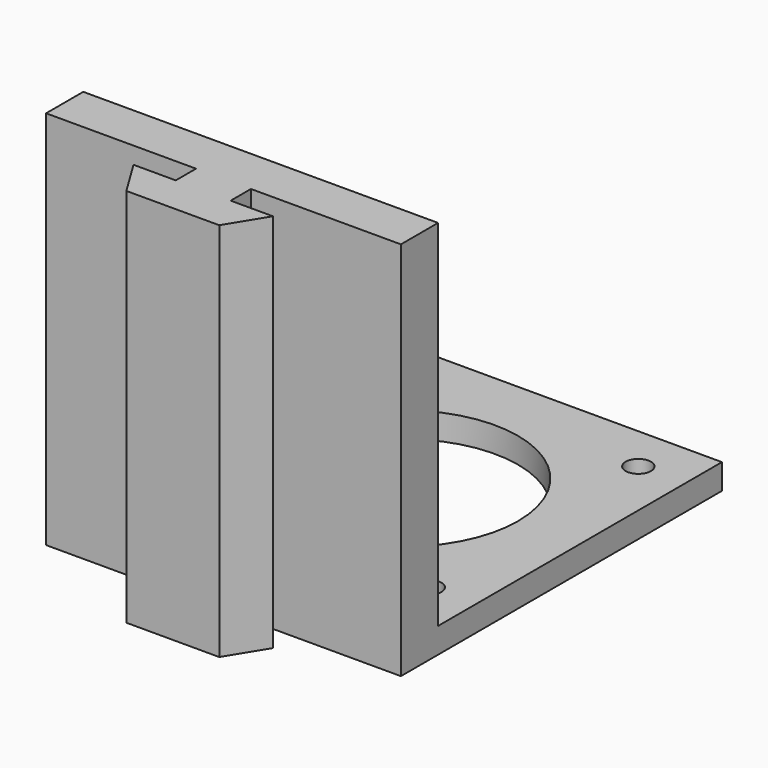
from build123d import *

# Parameters (mm, degrees)
F0_R     = 1.5
F0_R_2   = 13.666943
F1_DEPTH = 3
F0_W     = 3.25
F0_H     = 5.5
F0_W_2   = 17.75
F2_DEPTH = 45


with BuildPart() as f1:
    # F0 (on Top) → F1 (new body)
    with BuildSketch(Plane.XY):
        Polygon((21, 21), (-21, 21), (-21, -21), (-3.25, -21), (0, -21), (3.25, -21), (21, -21), align=None)
        with Locations((-15.5, -15.5)):
            Circle(F0_R, mode=Mode.SUBTRACT)
        with Locations((15.5, -15.5)):
            Circle(F0_R, mode=Mode.SUBTRACT)
        with Locations((-15.5, 15.5)):
            Circle(F0_R, mode=Mode.SUBTRACT)
        Circle(F0_R_2, mode=Mode.SUBTRACT)
        with Locations((15.5, 15.5)):
            Circle(F0_R, mode=Mode.SUBTRACT)
    extrude(amount=F1_DEPTH)

    # F0 (on Top) → F2 (join)
    with BuildSketch(Plane.XY):
        Polygon((0, -26.5), (-3.25, -26.5), (-3.25, -29.5), (-8.25, -29.5), (-5.5, -34), (0, -34), align=None)
        Polygon((3.25, -29.5), (3.25, -26.5), (0, -26.5), (0, -34), (5.5, -34), (8.25, -29.5), align=None)
        with Locations((1.625, -23.75)):
            Rectangle(F0_W, F0_H)
        with Locations((12.125, -23.75)):
            Rectangle(F0_W_2, F0_H)
        with Locations((-1.625, -23.75)):
            Rectangle(F0_W, F0_H)
        with Locations((-12.125, -23.75)):
            Rectangle(F0_W_2, F0_H)
        Polygon((3.25, -29.5), (3.25, -26.5), (0, -26.5), (0, -34), (5.5, -34), (8.25, -29.5), align=None)
    extrude(amount=F2_DEPTH)


solid = f1.part
